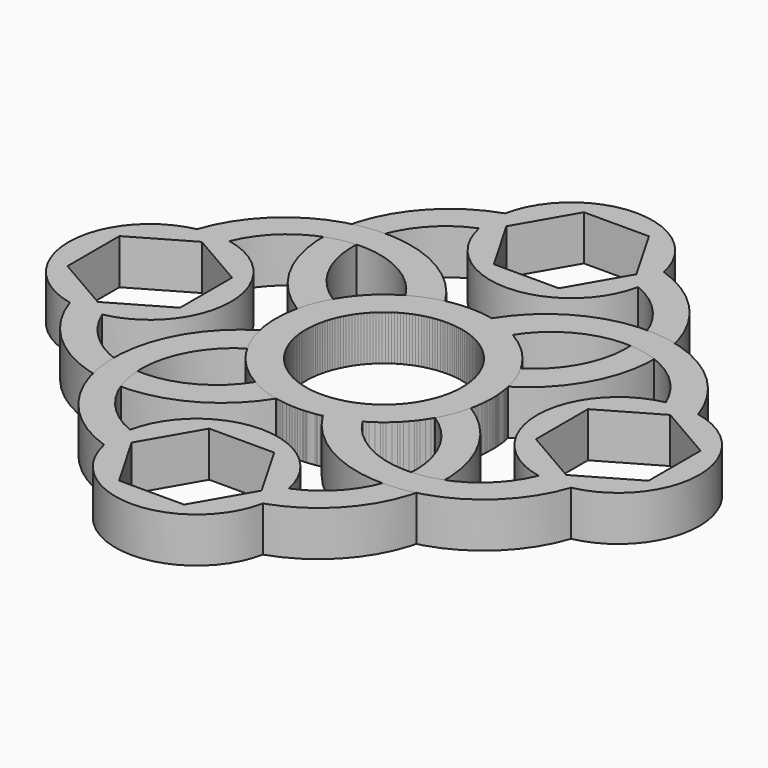
from build123d import *

# Parameters (mm, degrees)
F0_R     = 11.0236
F1_DEPTH = 6.35
F2_COUNT = 4


with BuildPart() as f1:
    # F0 (on Top) → F1 (new body)
    with BuildSketch(Plane.XY):
        with BuildLine():
            ThreePointArc((11.43, 33.02), (11.370943, 34.180408), (11.194384, 35.328824))
            ThreePointArc((11.194384, 35.328824), (0, 44.45), (-11.194384, 35.328824))
            ThreePointArc((-11.194384, 35.328824), (-11.429976, 33.0433), (-11.203704, 30.756834))
            ThreePointArc((-11.203704, 30.756834), (0, 21.59), (11.203704, 30.756834))
            ThreePointArc((11.203704, 30.756834), (11.373285, 31.882774), (11.43, 33.02))
        make_face()
        Polygon((9.165436, 33.02), (4.582718, 25.0825), (-4.582718, 25.0825), (-9.165436, 33.02), (-4.582718, 40.9575), (4.582718, 40.9575), align=None, mode=Mode.SUBTRACT)
        with BuildLine():
            ThreePointArc((-11.194384, 35.328824), (-23.224501, 20.47931), (-14.881645, 3.285458))
            ThreePointArc((-14.881645, 3.285458), (-14.220455, 5.480534), (-13.237485, 7.551595))
            ThreePointArc((-13.237485, 7.551595), (-19.286416, 19.773486), (-11.203704, 30.756834))
            ThreePointArc((-11.203704, 30.756834), (-11.429976, 33.0433), (-11.194384, 35.328824))
        make_face()
        with BuildLine():
            ThreePointArc((-14.881645, 3.285458), (-1.652472, -15.150146), (15.24, 0))
            ThreePointArc((15.24, 0), (15.150146, 1.652472), (14.881645, 3.285458))
            ThreePointArc((14.881645, 3.285458), (14.220455, 5.480534), (13.237485, 7.551595))
            ThreePointArc((13.237485, 7.551595), (0, 15.24), (-13.237485, 7.551595))
            ThreePointArc((-13.237485, 7.551595), (-14.220455, 5.480534), (-14.881645, 3.285458))
        make_face()
        Circle(F0_R, mode=Mode.SUBTRACT)
        with BuildLine():
            ThreePointArc((13.237485, 7.551595), (14.220455, 5.480534), (14.881645, 3.285458))
            ThreePointArc((14.881645, 3.285458), (23.224501, 20.47931), (11.194384, 35.328824))
            ThreePointArc((11.194384, 35.328824), (11.370943, 34.180408), (11.43, 33.02))
            ThreePointArc((11.43, 33.02), (11.373285, 31.882774), (11.203704, 30.756834))
            ThreePointArc((11.203704, 30.756834), (19.286416, 19.773486), (13.237485, 7.551595))
        make_face()
    extrude(amount=F1_DEPTH)


with BuildPart() as f2_1:
    # F2: instance of F1
    add(f1.part.rotate(Axis((0, 0, 6.35), (0, 0, 1)), 1 * 360 / F2_COUNT))


with BuildPart() as f2_2:
    # F2: instance of F1
    add(f1.part.rotate(Axis((0, 0, 6.35), (0, 0, 1)), 2 * 360 / F2_COUNT))


with BuildPart() as f2_3:
    # F2: instance of F1
    add(f1.part.rotate(Axis((0, 0, 6.35), (0, 0, 1)), 3 * 360 / F2_COUNT))


solid = Compound([f1.part, f2_1.part, f2_2.part, f2_3.part])
